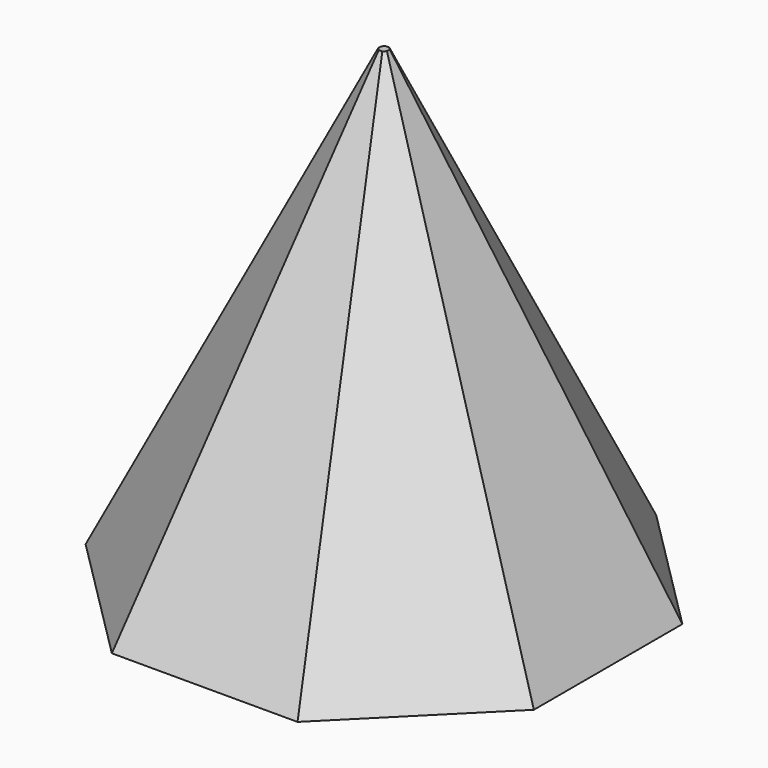
from build123d import *

# Parameters (mm, degrees)
F1_DEPTH = 83.82
F1_TAPER = 25
F3_DEPTH = 63.5
F3_TAPER = 25


with BuildPart() as f1:
    # F0 (on Top) → F1 (new body)
    with BuildSketch(Plane.XY):
        Polygon((16.51, 39.8586659148), (-16.51, 39.8586659148), (-39.8586659148, 16.51), (-39.8586659148, -16.51), (-16.51, -39.8586659148), (16.51, -39.8586659148), (39.8586659148, -16.51), (39.8586659148, 16.51), align=None)
        Polygon((-29.6986659148, 12.3015902063), (-12.3015902063, 29.6986659148), (12.3015902063, 29.6986659148), (29.6986659148, 12.3015902063), (29.6986659148, -12.3015902063), (12.3015902063, -29.6986659148), (-12.3015902063, -29.6986659148), (-29.6986659148, -12.3015902063), align=None, mode=Mode.SUBTRACT)
        Polygon((12.3015902063, 29.6986659148), (-12.3015902063, 29.6986659148), (-29.6986659148, 12.3015902063), (-29.6986659148, -12.3015902063), (-12.3015902063, -29.6986659148), (12.3015902063, -29.6986659148), (29.6986659148, -12.3015902063), (29.6986659148, 12.3015902063), align=None)
    extrude(amount=F1_DEPTH, taper=F1_TAPER)

    # F2 (on Top) → F3 (cut)
    with BuildSketch(Plane.XY):
        Polygon((29.6986659148, -12.3015902063), (29.6986659148, 12.3015902063), (12.3015902063, 29.6986659148), (-12.3015902063, 29.6986659148), (-29.6986659148, 12.3015902063), (-29.6986659148, -12.3015902063), (-12.3015902063, -29.6986659148), (12.3015902063, -29.6986659148), align=None)
    extrude(amount=F3_DEPTH, taper=F3_TAPER, mode=Mode.SUBTRACT)


solid = f1.part
